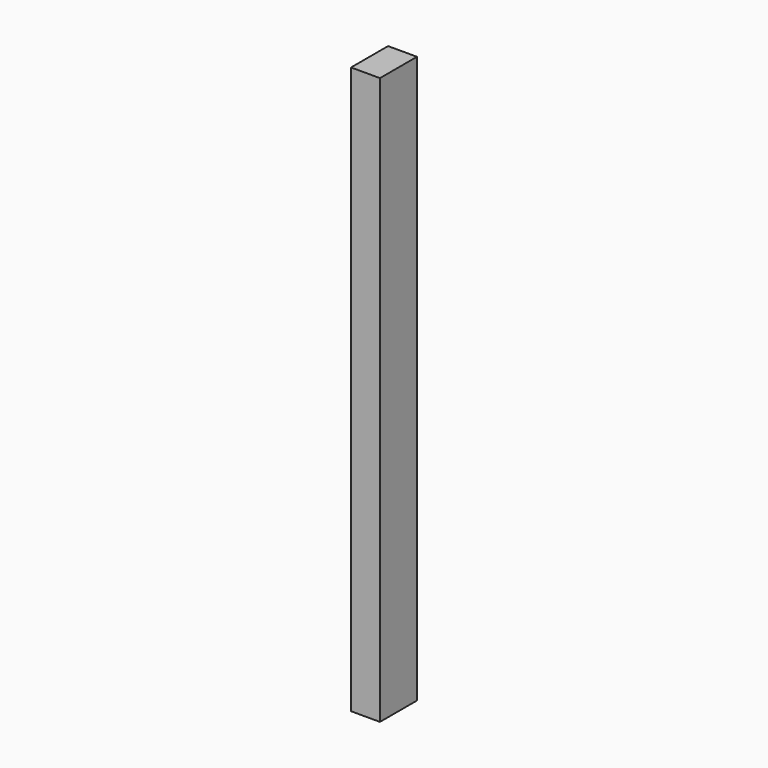
from build123d import *

# Parameters (mm, degrees)
RECTANGLE064_W   = 6
RECTANGLE064_H   = 6
EXTRUDE078_DEPTH = 7.5
FACEBINDER012_W  = 4
FACEBINDER012_H  = 2.5
EXTRUDE037_DEPTH = 55


with BuildPart() as extrude078:
    # Rectangle064 → Extrude078 (new body)
    with BuildSketch(Plane(origin=(-250, 6, 64), x_dir=(0, -1, 0), z_dir=(-1, 0, 0))):
        with Locations((3, 3)):
            Rectangle(RECTANGLE064_W, RECTANGLE064_H)
    extrude(amount=-EXTRUDE078_DEPTH)


with BuildPart() as extrude078_1:
    # Extrude078 placement: moved
    add(extrude078.part.moved(Location((110, 0, 0))))


with BuildPart() as cut001:
    # Facebinder012 → Extrude037 (new body)
    with BuildSketch(Plane(origin=(-133.75, 2, 70), x_dir=(0, -1, 0), z_dir=(0, 0, -1))):
        Rectangle(FACEBINDER012_W, FACEBINDER012_H)
    extrude(amount=EXTRUDE037_DEPTH)

    # Cut001: cut Extrude078
    add(extrude078_1.part, mode=Mode.SUBTRACT)


with BuildPart() as cut001_1:
    # Cut001 placement: moved
    add(cut001.part.moved(Location((-2.5, 0, 0))))


solid = cut001_1.part
